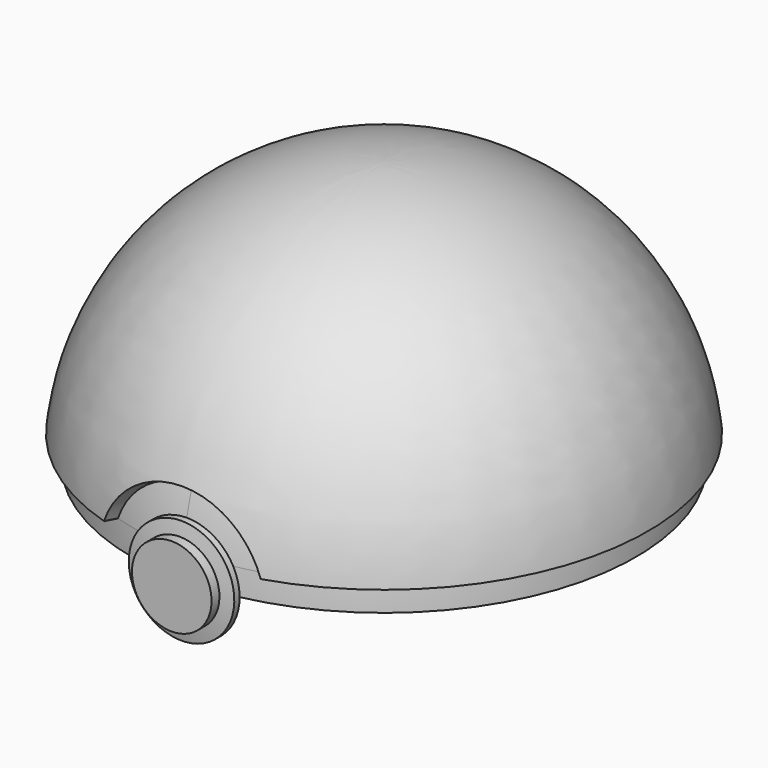
from build123d import *

# Parameters (mm, degrees)
GROOVE_ANGLE = -142.5
PAD_DEPTH    = 5
SKETCH004_R  = 2.5
PAD001_DEPTH = 10


with BuildPart() as part:
    # Sketch → Revolution (revolve)
    with BuildSketch(Plane.YZ):
        with BuildLine():
            ThreePointArc((0, 50), (-33.54102, 37.080992), (-49.749372, 5))
            Line((-47.261903, 4.75), (-49.749372, 5))
            ThreePointArc((-47.261903, 4.75), (-47.440438, 2.377982), (-47.5, 0))
            Line((-45, 0), (-47.5, 0))
            ThreePointArc((0, 45), (-31.819805, 31.819805), (-45, 0))
            Line((0, 50), (0, 45))
        make_face()
    revolve(axis=Axis((0, 0, 0), (0, 0, 1)))

    # Sketch001 → Groove (revolve, symmetric, cut)
    with BuildSketch(Plane.YZ) as groove_sk:
        with BuildLine():
            Line((-45.131579, 14.811839), (-47.507388, 15.59))
            ThreePointArc((-47.507388, 15.59), (-49.372915, 7.894004), (-50, 0))
            Line((-47.5, 0), (-50, 0))
            ThreePointArc((-45.131579, 14.811839), (-46.904158, 7.5), (-47.5, 0))
        make_face()
    revolve(axis=Axis((0, 0, 0), (0, 1, 0)), revolution_arc=GROOVE_ANGLE / 2, mode=Mode.SUBTRACT)
    revolve(groove_sk.sketch, axis=Axis((0, 0, 0), (0, -1, 0)), revolution_arc=GROOVE_ANGLE / 2, mode=Mode.SUBTRACT)

    # Sketch002 → Revolution001 (revolve)
    with BuildSketch(Plane.YZ):
        with BuildLine():
            ThreePointArc((-46.447368, 9.944444), (-47.236109, 5), (-47.5, 0))
            Line((-47.5, 0), (-50, 0))
            Line((-50, 7.5), (-50, 0))
            Line((-48.142299, 7.5), (-50, 7.5))
            ThreePointArc((-47.697368, 9.944444), (-47.935418, 8.725059), (-48.142299, 7.5))
            Line((-46.447368, 9.944444), (-47.697368, 9.944444))
        make_face()
    revolve(axis=Axis((0, 0, 0), (0, 1, 0)))

    # Sketch003 → Pad (new body)
    with BuildSketch(Plane.XY):
        with BuildLine():
            Line((9.978798, 46.44), (9.978798, 50))
            Line((-9.978798, 50), (9.978798, 50))
            Line((-9.978798, 46.44), (-9.978798, 50))
            ThreePointArc((9.978798, 46.44), (0, 47.5), (-9.978798, 46.44))
        make_face()
    extrude(amount=PAD_DEPTH)

    # Sketch004 → Pad001 (join, symmetric)
    with BuildSketch(Plane.YZ):
        with BuildLine():
            Line((50, 0), (50, 5))
            Line((55.42946, 4.47946), (50, 5))
            ThreePointArc((50.95, -1.961505), (58.694399, -2.569322), (55.42946, 4.47946))
            Line((50.95, -1.961505), (50, 0))
        make_face()
        with Locations((55, 0)):
            Circle(SKETCH004_R, mode=Mode.SUBTRACT)
    extrude(amount=PAD001_DEPTH, both=True)


solid = part.part
